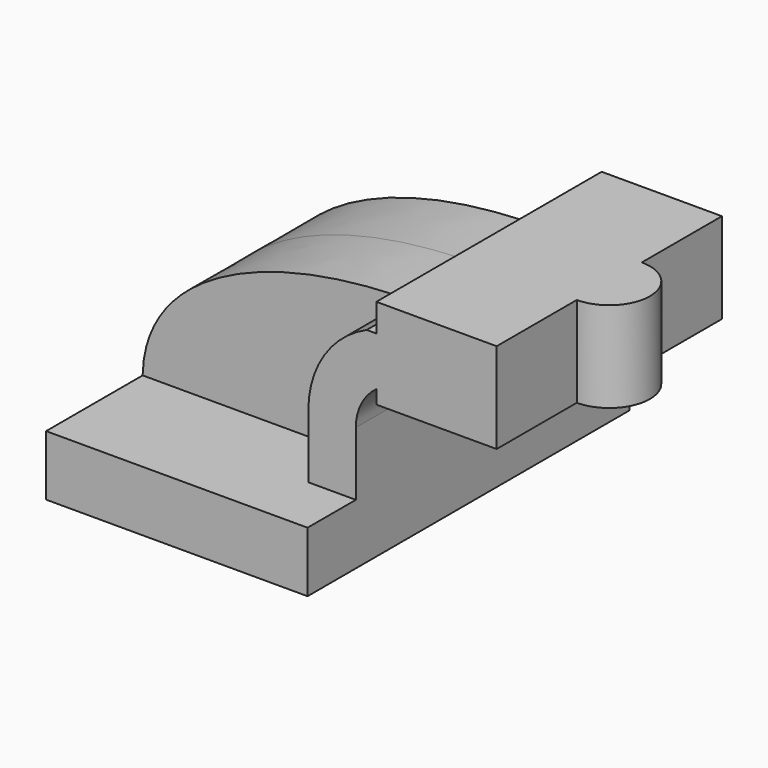
from build123d import *

# Parameters (mm, degrees)
F1_DEPTH = 63.5
F2_DEPTH = 25.4
F0_W     = 37.9670182306
F0_H     = 8.8137983387
F3_DEPTH = 44.45


with BuildPart() as f1:
    # F0 (on Front) → F1 (new body, symmetric)
    with BuildSketch(Plane.XZ):
        Polygon((36.9568020105, 4.2637886968), (-30.6071963282, 4.2637886968), (-30.6071963282, -14.7862113032), (51.9428036718, -14.7862113032), (51.9428036718, 4.2637886968), align=None)
    extrude(amount=F1_DEPTH, both=True)

    # F0 (on Front) → F2 (join, symmetric)
    with BuildSketch(Plane.XZ):
        with BuildLine():
            add(Edge.make_bspline(
                [(-30.6071963282, 4.2637886968), (-29.9851279706, 36.267735064), (10.8517641202, 52.8309457004), (55.3704965091, 52.5999903581)],
                knots=[0, 0, 0, 0, 98.6334226145, 98.6334226145, 98.6334226145, 98.6334226145], degree=3))
            Line((-30.6071963282, 4.2637886968), (36.9568020105, 4.2637886968))
            Line((36.9568020105, 4.2637886968), (36.9568020105, 24.3605504215))
            ThreePointArc((36.9568020105, 24.3605504215), (41.9669062931, 41.2167815618), (55.3704965091, 52.5999903581))
        make_face()
    extrude(amount=F2_DEPTH, both=True)

    # F0 (on Front) → F3 (join, symmetric)
    with BuildSketch(Plane.XZ):
        with BuildLine():
            Line((36.9568020105, 24.3605504215), (36.9568020105, 4.2637886968))
            Line((36.9568020105, 4.2637886968), (51.9428036718, 4.2637886968))
            Line((51.9428036718, 4.2637886968), (51.9428036718, 24.3605504215))
            ThreePointArc((51.9428036718, 24.3605504215), (53.6559903273, 31.5340201394), (58.4257854412, 37.1592073258))
            Line((58.4257854412, 37.1592073258), (58.4257854412, 52.5999903581))
            Line((58.4257854412, 52.5999903581), (55.3704965091, 52.5999903581))
            ThreePointArc((55.3704965091, 52.5999903581), (41.9669062931, 41.2167815618), (36.9568020105, 24.3605504215))
        make_face()
        with BuildLine():
            Line((96.3928036718, 52.5999903581), (58.4257854412, 52.5999903581))
            Line((58.4257854412, 52.5999903581), (58.4257854412, 37.1592073258))
            ThreePointArc((58.4257854412, 37.1592073258), (58.7496754638, 37.3906953095), (59.0792683894, 37.6139886968))
            Line((59.0792683894, 37.6139886968), (96.3928036718, 37.6139886968))
            Line((96.3928036718, 37.6139886968), (96.3928036718, 52.5999903581))
        make_face()
        with BuildLine():
            ThreePointArc((59.0792683894, 37.6139886968), (58.7496754638, 37.3906953095), (58.4257854412, 37.1592073258))
            Line((58.4257854412, 37.1592073258), (58.4257854412, 32.8387886968))
            Line((58.4257854412, 32.8387886968), (96.3928036718, 32.8387886968))
            Line((96.3928036718, 32.8387886968), (96.3928036718, 37.6139886968))
            Line((96.3928036718, 37.6139886968), (59.0792683894, 37.6139886968))
        make_face()
        with Locations((77.4092945565, 57.0068895275)):
            Rectangle(F0_W, F0_H)
    extrude(amount=F3_DEPTH, both=True)

    # F0 (on Front) → F4 (revolve)
    with BuildSketch(Plane.XZ):
        Polygon((96.3928036718, 61.4137886968), (96.3928036718, 52.5999903581), (96.3928036718, 37.6139886968), (96.3928036718, 32.8387886968), (109.2257854412, 32.8387886968), (109.2257854412, 61.4137886968), align=None)
    revolve(axis=Axis((96.3928036718, 0, 49.5138886968), (0, 0, -1)))


solid = f1.part
